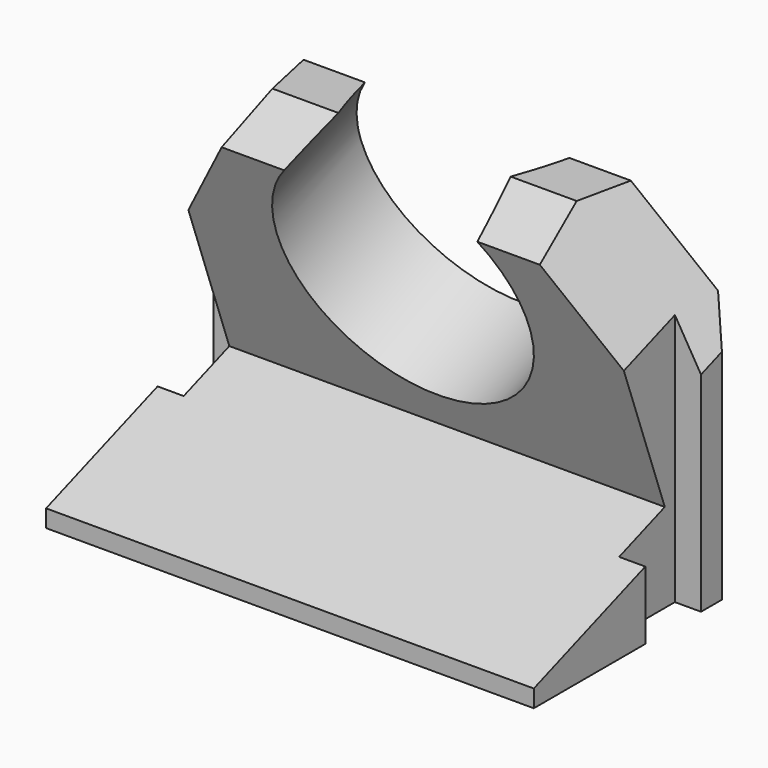
from build123d import *

# Parameters (mm, degrees)
F0_W      = 28
F0_H      = 20
F1_DEPTH  = 20
F3_DEPTH  = 20
F6_DEPTH  = 17.5
F7_W      = 1.5
F7_H      = 4
F8_DEPTH  = 40
F12_DEPTH = 15
F15_D     = 14.5
F17_DEPTH = 20
F19_DEPTH = 12.5


with BuildPart() as f1:
    # F0 (on Top) → F1 (new body)
    with BuildSketch(Plane.XY):
        Rectangle(F0_W, F0_H)
    extrude(amount=F1_DEPTH)


with BuildPart() as f3:
    # F2 (on Top) → F3 (new body)
    with BuildSketch(Plane.XY):
        Polygon((-14, 3.5), (-7.5, 10), (-14, 10), align=None)
    extrude(amount=F3_DEPTH)


with BuildPart() as f4_1:
    # F4: instance of F3
    add(f3.part.mirror(Plane.YZ))


with BuildPart() as f6:
    # F5 (on Right) → F6 (new body, symmetric)
    with BuildSketch(Plane.YZ):
        Polygon((-0.083567, 27.704372), (10, 0), (10, 27.704372), align=None)
    extrude(amount=F6_DEPTH, both=True)


with BuildPart() as f8:
    # F7 (on Top) → F8 (new body)
    with BuildSketch(Plane.XY):
        with Locations((-13.25, 0)):
            Rectangle(F7_W, F7_H)
    extrude(amount=F8_DEPTH)


with BuildPart() as f9_1:
    # F9: instance of F8
    add(f8.part.mirror(Plane.YZ))


with BuildPart() as f1_1:
    add(f1.part)

    # F10: cut F3, F4_1, F6, F8, F9_1
    add(f3.part, mode=Mode.SUBTRACT)
    add(f4_1.part, mode=Mode.SUBTRACT)
    add(f6.part, mode=Mode.SUBTRACT)
    add(f8.part, mode=Mode.SUBTRACT)
    add(f9_1.part, mode=Mode.SUBTRACT)


with BuildPart() as f12:
    # F11 (on Right) → F12 (new body, symmetric)
    with BuildSketch(Plane.YZ):
        Polygon((-10, 36.085653), (-10, 1), (1.276311, 5.104242), align=None)
    extrude(amount=F12_DEPTH, both=True)


with BuildPart() as f1_2:
    add(f1_1.part)

    # F13: cut F12
    add(f12.part, mode=Mode.SUBTRACT)

    # F15 (through all)
    with Locations(Plane(origin=(0, 2.767483, 1.007281), x_dir=(1, 0, 0), z_dir=(0, -0.939693, -0.34202))):
        with Locations((0, 13.609894)):
            Hole(F15_D / 2)


with BuildPart() as f17:
    # F16 (on Right) → F17 (new body, symmetric)
    with BuildSketch(Plane.YZ):
        Polygon((-6.932441, 16.194142), (0, 20.196589), (-9.243255, 20.196589), align=None)
    extrude(amount=F17_DEPTH, both=True)


with BuildPart() as f19:
    # F18 (on face) → F19 (new body, symmetric)
    with BuildSketch(Plane(origin=(0, 8.830222, 3.213938), x_dir=(-1, 0, 0), z_dir=(0, 0.939693, 0.34202))):
        Polygon((14, 26.39773), (4, 26.39773), (14, 10.579799), align=None)
    extrude(amount=F19_DEPTH, both=True)


with BuildPart() as f20_1:
    # F20: instance of F19
    add(f19.part.mirror(Plane.YZ))


with BuildPart() as f1_3:
    add(f1_2.part)

    # F21: cut F20_1, F19, F17
    add(f20_1.part, mode=Mode.SUBTRACT)
    add(f19.part, mode=Mode.SUBTRACT)
    add(f17.part, mode=Mode.SUBTRACT)


solid = f1_3.part
